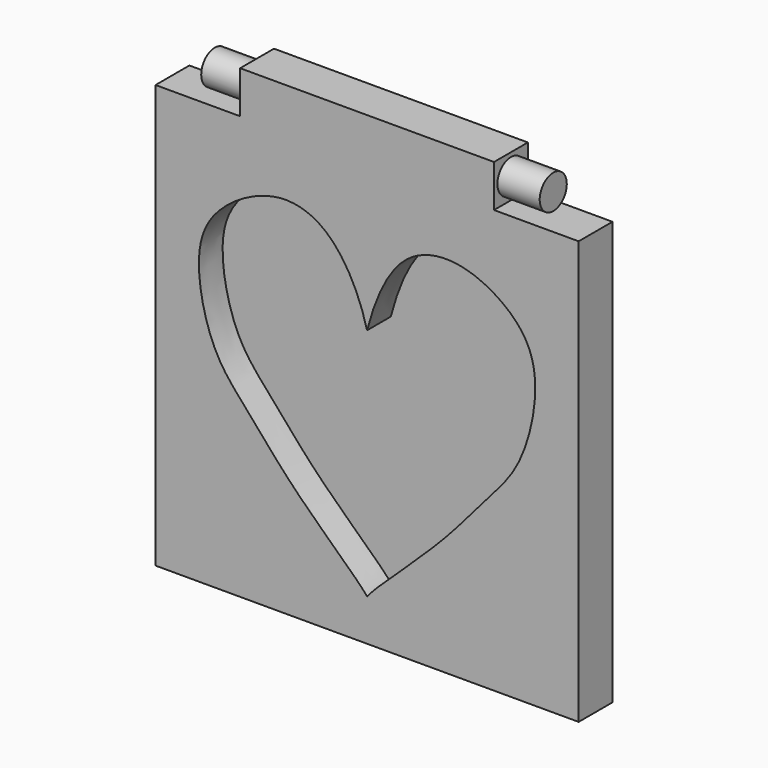
from build123d import *

# Parameters (mm, degrees)
F0_W      = 76.2
F0_H      = 12.7
F1_DEPTH  = 12.7
F3_DEPTH  = 8.89
F4_R      = 5.08
F6_DEPTH  = 12.7
F5_R      = 5.08
F7_DEPTH  = 12.7
F9_DEPTH  = 25.4
F10_DEPTH = 27.94


with BuildPart() as f1:
    # F0 (on Front) → F1 (new body)
    with BuildSketch(Plane.XZ):
        Polygon((0, 127), (0, 0), (127, 0), (127, 127), (101.6, 127), (25.4, 127), align=None)
        with Locations((63.5, 133.35)):
            Rectangle(F0_W, F0_H)
    extrude(amount=F1_DEPTH)

    # F2 (on face) → F3 (cut)
    with BuildSketch(Plane.XZ.offset(12.7)):
        with BuildLine():
            add(Edge.make_bspline(
                [(63.4987656228, 82.8234252413), (65.7944586236, 91.6299622391), (72.1886023506, 107.0116522323), (90.0821587433, 111.2125565685), (106.8710029159, 103.0162659913), (116.4791124343, 88.9318796455), (110.9170075822, 62.2019240555), (99.1217465906, 50.0178945927), (85.713732663, 33.0522997276), (64.6725747122, 14.5310603816), (63.5000403166, 12.4261625143)],
                knots=[0, 0, 0, 0, 0.1334920413, 0.2400309268, 0.3521533097, 0.4590894201, 0.5938444531, 0.7025908162, 0.8355735517, 0.9771775563, 0.9771775563, 0.9771775563, 0.9771775563], degree=3))
            add(Edge.make_bspline(
                [(63.4987656228, 82.8234252413), (61.1980108587, 91.6493797334), (53.6750071574, 106.1699961718), (37.05564123, 111.4877343311), (20.0712763985, 102.9357168424), (10.5413805272, 88.9603425755), (16.0783040671, 62.1954127389), (27.8800231479, 50.019785903), (41.2846350113, 33.0521653502), (62.3303330397, 14.5298536586), (63.5000403166, 12.4261625143)],
                knots=[0, 0, 0, 0, 0.1337863773, 0.2385689745, 0.3509673467, 0.4580992197, 0.5931009421, 0.7020463819, 0.8352725623, 0.9771357943, 0.9771357943, 0.9771357943, 0.9771357943], degree=3))
        make_face()
    extrude(amount=-F3_DEPTH, mode=Mode.SUBTRACT)

    # F4 (on face) → F6 (join)
    with BuildSketch(Plane(origin=(25.4, 0, 0), x_dir=(0, -1, 0), z_dir=(-1, 0, 0))):
        with Locations((6.35, 133.35)):
            Circle(F4_R)
    extrude(amount=F6_DEPTH)

    # F5 (on face) → F7 (join)
    with BuildSketch(Plane.YZ.offset(101.6)):
        with Locations((-6.35, 133.35)):
            Circle(F5_R)
    extrude(amount=F7_DEPTH)

    # F8 (on face) → F9 (join)
    with BuildSketch(Plane(origin=(0, 0, 0), x_dir=(-1, 0, 0), z_dir=(0, 1, 0))):
        Polygon((-111.5843430161, 18.6714399606), (-63.5, 18.6714399606), (-9.9843430161, 18.6714399606), (-9.9843430161, 50.8), (-9.9843430161, 63.5), (-9.9843430161, 107.5714399606), (-63.5, 107.5714399606), (-111.5843430161, 107.5714399606), (-111.5843430161, 63.5), (-111.5843430161, 50.8), align=None)
    extrude(amount=F9_DEPTH)

    # F10 (cut): a face of the model
    f10_faces = [f1.faces().sort_by_distance(p)[0] for p in [
        (60.7843430161, 25.4, 63.1214399606),
    ]]
    extrude(f10_faces, amount=-F10_DEPTH, mode=Mode.SUBTRACT)


solid = f1.part
